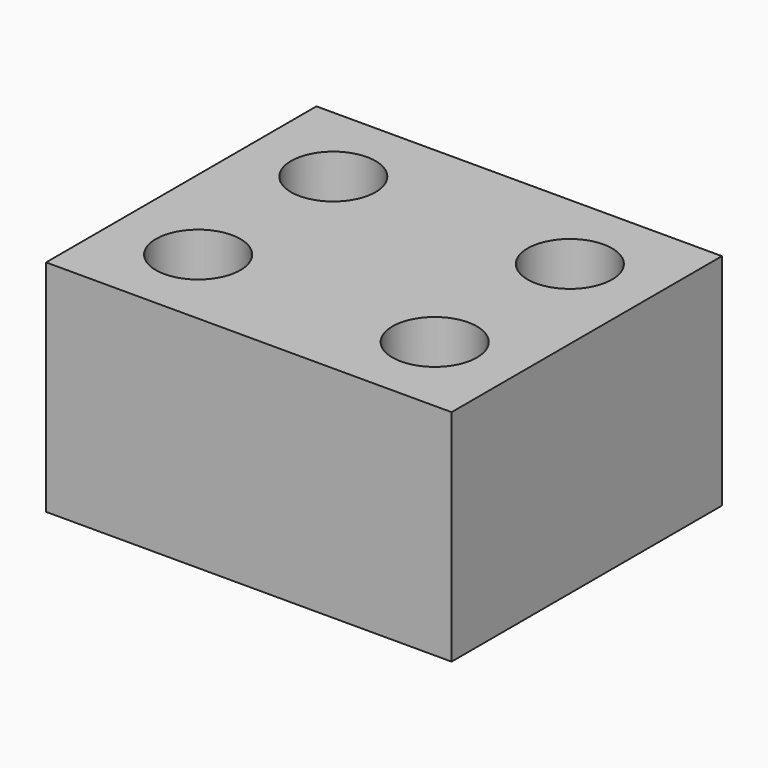
from build123d import *

# Parameters (mm, degrees)
F0_W     = 50.8
F0_H     = 50.8
F1_DEPTH = 13
F3_DEPTH = 16
F5_D     = 5


with BuildPart() as f1:
    # F0 (on Top) → F1 (new body)
    with BuildSketch(Plane.XY):
        Rectangle(F0_W, F0_H)
    extrude(amount=F1_DEPTH)

    # F2 (on face) → F3 (cut)
    with BuildSketch(Plane.XY.offset(13)):
        Polygon((-1.4, -5.4), (-1.4, -25.4), (25.4, -25.4), (25.4, 25.4), (-25.4, 25.4), (-25.4, -5.4), align=None)
    extrude(amount=-F3_DEPTH, mode=Mode.SUBTRACT)

    # F5 (through all)
    with Locations(Plane.XY.offset(13)):
        with Locations((-20.4, -10.4), (-20.4, -20.4), (-6.4, -10.4), (-6.4, -20.4)):
            Hole(F5_D / 2)


solid = f1.part
